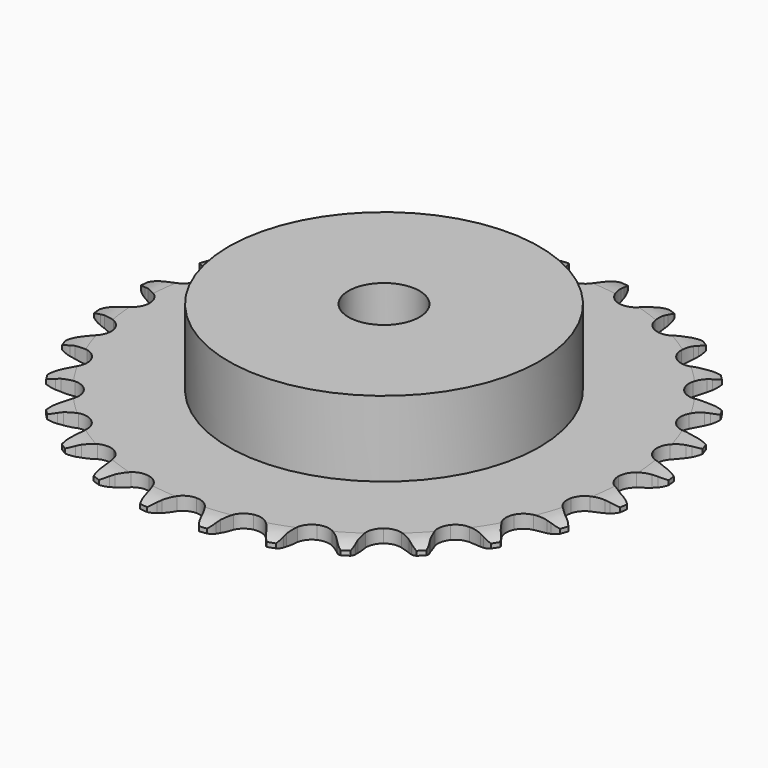
from build123d import *

# Parameters (mm, degrees)
PAD_DEPTH         = 3
SKETCH001_R       = 35
PAD001_DEPTH      = 20
SKETCH002_R       = 8
POCKET_DEPTH      = 0.001
POCKET_DEPTH_BACK = 20.001


with BuildPart() as part:
    # Sprocket → Pad (new body)
    with BuildSketch(Plane.XY):
        with BuildLine():
            ThreePointArc((-6.807169, 60.415297), (-5.673583, 59.223567), (-4.885801, 57.779739))
            Line((-4.885801, 57.779739), (-4.508176, 56.803276))
            ThreePointArc((-4.508176, 56.803276), (-3.907565, 55.523602), (-3.134704, 54.339971))
            ThreePointArc((-3.134704, 54.339971), (-1.750273, 53.192925), (0, 52.781942))
            ThreePointArc((0, 52.781942), (1.750273, 53.192925), (3.134704, 54.339971))
            ThreePointArc((3.134704, 54.339971), (3.907565, 55.523602), (4.508176, 56.803276))
            Line((4.508176, 56.803276), (4.885801, 57.779739))
            ThreePointArc((4.885801, 57.779739), (5.673583, 59.223567), (6.807169, 60.415297))
            ThreePointArc((6.807169, 60.415297), (7.647149, 59.001199), (8.093898, 57.418273))
            Line((8.093898, 57.418273), (8.244772, 56.382263))
            ThreePointArc((8.244772, 56.382263), (8.545569, 55.001025), (9.035671, 53.675092))
            ThreePointArc((9.035671, 53.675092), (10.130149, 52.24874), (11.745087, 51.458589))
            ThreePointArc((11.745087, 51.458589), (13.542929, 51.469795), (15.147891, 52.280018))
            Line((15.147891, 52.280018), (17.035064, 54.375936))
            ThreePointArc((17.035064, 54.375936), (17.316567, 54.817478), (17.620505, 55.243887))
            ThreePointArc((17.620505, 55.243887), (18.709818, 56.476217), (20.080167, 57.385822))
            ThreePointArc((20.080167, 57.385822), (20.584421, 55.820265), (20.667735, 54.177615))
            Line((20.667735, 54.177615), (20.584292, 53.134007))
            ThreePointArc((20.584292, 53.134007), (20.570194, 51.720466), (20.75296, 50.318719))
            ThreePointArc((20.75296, 50.318719), (21.502604, 48.684585), (22.901226, 47.554887))
            ThreePointArc((22.901226, 47.554887), (24.656487, 47.165755), (26.4015, 47.598526))
            Line((26.4015, 47.598526), (28.707744, 49.221959))
            ThreePointArc((28.707744, 49.221959), (29.080441, 49.589791), (29.471644, 49.937876))
            ThreePointArc((29.471644, 49.937876), (30.807864, 50.896915), (32.346262, 51.478782))
            ThreePointArc((32.346262, 51.478782), (32.489504, 49.84027), (32.205205, 48.220266))
            Line((32.205205, 48.220266), (31.89163, 47.221391))
            ThreePointArc((31.89163, 47.221391), (31.563342, 45.846427), (31.429608, 44.439156))
            ThreePointArc((31.429608, 44.439156), (31.796828, 42.679181), (32.909003, 41.266584))
            ThreePointArc((32.909003, 41.266584), (34.533665, 40.496626), (36.331228, 40.530245))
            Line((36.331228, 40.530245), (38.940897, 41.599788))
            ThreePointArc((38.940897, 41.599788), (39.3861, 41.875464), (39.844951, 42.127772))
            ThreePointArc((39.844951, 42.127772), (41.361075, 42.765428), (42.990381, 42.990381))
            ThreePointArc((42.990381, 42.990381), (42.765428, 41.361075), (42.127772, 39.844951))
            Line((42.127772, 39.844951), (41.599788, 38.940897))
            ThreePointArc((41.599788, 38.940897), (40.973773, 37.673457), (40.530245, 36.331228))
            ThreePointArc((40.530245, 36.331228), (40.496626, 34.533665), (41.266584, 32.909003))
            ThreePointArc((41.266584, 32.909003), (42.679181, 31.796828), (44.439156, 31.429608))
            Line((44.439156, 31.429608), (47.221391, 31.89163))
            ThreePointArc((47.221391, 31.89163), (47.716776, 32.061327), (48.220266, 32.205205))
            ThreePointArc((48.220266, 32.205205), (49.84027, 32.489504), (51.478782, 32.346262))
            ThreePointArc((51.478782, 32.346262), (50.896915, 30.807864), (49.937876, 29.471644))
            Line((49.937876, 29.471644), (49.221959, 28.707744))
            ThreePointArc((49.221959, 28.707744), (48.329608, 27.611383), (47.598526, 26.4015))
            ThreePointArc((47.598526, 26.4015), (47.165755, 24.656487), (47.554887, 22.901226))
            ThreePointArc((47.554887, 22.901226), (48.684585, 21.502604), (50.318719, 20.75296))
            Line((50.318719, 20.75296), (53.134007, 20.584292))
            ThreePointArc((53.134007, 20.584292), (53.654733, 20.639501), (54.177615, 20.667735))
            ThreePointArc((54.177615, 20.667735), (55.820265, 20.584421), (57.385822, 20.080167))
            ThreePointArc((57.385822, 20.080167), (56.476217, 18.709818), (55.243887, 17.620505))
            Line((55.243887, 17.620505), (54.375936, 17.035064))
            ThreePointArc((54.375936, 17.035064), (53.261995, 16.164758), (52.280018, 15.147891))
            ThreePointArc((52.280018, 15.147891), (51.469795, 13.542929), (51.458589, 11.745087))
            ThreePointArc((51.458589, 11.745087), (52.24874, 10.130149), (53.675092, 9.035671))
            Line((53.675092, 9.035671), (56.382263, 8.244772))
            ThreePointArc((56.382263, 8.244772), (56.902218, 8.182724), (57.418273, 8.093898))
            ThreePointArc((57.418273, 8.093898), (59.001199, 7.647149), (60.415297, 6.807169))
            ThreePointArc((60.415297, 6.807169), (59.223567, 5.673583), (57.779739, 4.885801))
            Line((57.779739, 4.885801), (56.803276, 4.508176))
            ThreePointArc((56.803276, 4.508176), (55.523602, 3.907565), (54.339971, 3.134704))
            ThreePointArc((54.339971, 3.134704), (53.192925, 1.750273), (52.781942, 0))
            ThreePointArc((52.781942, 0), (53.192925, -1.750273), (54.339971, -3.134704))
            Line((54.339971, -3.134704), (56.803276, -4.508176))
            ThreePointArc((56.803276, -4.508176), (57.296388, -4.684368), (57.779739, -4.885801))
            ThreePointArc((57.779739, -4.885801), (59.223567, -5.673583), (60.415297, -6.807169))
            ThreePointArc((60.415297, -6.807169), (59.001199, -7.647149), (57.418273, -8.093898))
            Line((57.418273, -8.093898), (56.382263, -8.244772))
            ThreePointArc((56.382263, -8.244772), (55.001025, -8.545569), (53.675092, -9.035671))
            ThreePointArc((53.675092, -9.035671), (52.24874, -10.130149), (51.458589, -11.745087))
            ThreePointArc((51.458589, -11.745087), (51.469795, -13.542929), (52.280018, -15.147891))
            Line((52.280018, -15.147891), (54.375936, -17.035064))
            ThreePointArc((54.375936, -17.035064), (54.817478, -17.316567), (55.243887, -17.620505))
            ThreePointArc((55.243887, -17.620505), (56.476217, -18.709818), (57.385822, -20.080167))
            ThreePointArc((57.385822, -20.080167), (55.820265, -20.584421), (54.177615, -20.667735))
            Line((54.177615, -20.667735), (53.134007, -20.584292))
            ThreePointArc((53.134007, -20.584292), (51.720466, -20.570194), (50.318719, -20.75296))
            ThreePointArc((50.318719, -20.75296), (48.684585, -21.502604), (47.554887, -22.901226))
            ThreePointArc((47.554887, -22.901226), (47.165755, -24.656487), (47.598526, -26.4015))
            Line((47.598526, -26.4015), (49.221959, -28.707744))
            ThreePointArc((49.221959, -28.707744), (49.589791, -29.080441), (49.937876, -29.471644))
            ThreePointArc((49.937876, -29.471644), (50.896915, -30.807864), (51.478782, -32.346262))
            ThreePointArc((51.478782, -32.346262), (49.84027, -32.489504), (48.220266, -32.205205))
            Line((48.220266, -32.205205), (47.221391, -31.89163))
            ThreePointArc((47.221391, -31.89163), (45.846427, -31.563342), (44.439156, -31.429608))
            ThreePointArc((44.439156, -31.429608), (42.679181, -31.796828), (41.266584, -32.909003))
            ThreePointArc((41.266584, -32.909003), (40.496626, -34.533665), (40.530245, -36.331228))
            Line((40.530245, -36.331228), (41.599788, -38.940897))
            ThreePointArc((41.599788, -38.940897), (41.875464, -39.3861), (42.127772, -39.844951))
            ThreePointArc((42.127772, -39.844951), (42.765428, -41.361075), (42.990381, -42.990381))
            ThreePointArc((42.990381, -42.990381), (41.361075, -42.765428), (39.844951, -42.127772))
            Line((39.844951, -42.127772), (38.940897, -41.599788))
            ThreePointArc((38.940897, -41.599788), (37.673457, -40.973773), (36.331228, -40.530245))
            ThreePointArc((36.331228, -40.530245), (34.533665, -40.496626), (32.909003, -41.266584))
            ThreePointArc((32.909003, -41.266584), (31.796828, -42.679181), (31.429608, -44.439156))
            Line((31.429608, -44.439156), (31.89163, -47.221391))
            ThreePointArc((31.89163, -47.221391), (32.061327, -47.716776), (32.205205, -48.220266))
            ThreePointArc((32.205205, -48.220266), (32.489504, -49.84027), (32.346262, -51.478782))
            ThreePointArc((32.346262, -51.478782), (30.807864, -50.896915), (29.471644, -49.937876))
            Line((29.471644, -49.937876), (28.707744, -49.221959))
            ThreePointArc((28.707744, -49.221959), (27.611383, -48.329608), (26.4015, -47.598526))
            ThreePointArc((26.4015, -47.598526), (24.656487, -47.165755), (22.901226, -47.554887))
            ThreePointArc((22.901226, -47.554887), (21.502604, -48.684585), (20.75296, -50.318719))
            Line((20.75296, -50.318719), (20.584292, -53.134007))
            ThreePointArc((20.584292, -53.134007), (20.639501, -53.654733), (20.667735, -54.177615))
            ThreePointArc((20.667735, -54.177615), (20.584421, -55.820265), (20.080167, -57.385822))
            ThreePointArc((20.080167, -57.385822), (18.709818, -56.476217), (17.620505, -55.243887))
            Line((17.620505, -55.243887), (17.035064, -54.375936))
            ThreePointArc((17.035064, -54.375936), (16.164758, -53.261995), (15.147891, -52.280018))
            ThreePointArc((15.147891, -52.280018), (13.542929, -51.469795), (11.745087, -51.458589))
            ThreePointArc((11.745087, -51.458589), (10.130149, -52.24874), (9.035671, -53.675092))
            Line((9.035671, -53.675092), (8.244772, -56.382263))
            ThreePointArc((8.244772, -56.382263), (8.182724, -56.902218), (8.093898, -57.418273))
            ThreePointArc((8.093898, -57.418273), (7.647149, -59.001199), (6.807169, -60.415297))
            ThreePointArc((6.807169, -60.415297), (5.673583, -59.223567), (4.885801, -57.779739))
            Line((4.885801, -57.779739), (4.508176, -56.803276))
            ThreePointArc((4.508176, -56.803276), (3.907565, -55.523602), (3.134704, -54.339971))
            ThreePointArc((3.134704, -54.339971), (1.750273, -53.192925), (0, -52.781942))
            ThreePointArc((0, -52.781942), (-1.750273, -53.192925), (-3.134704, -54.339971))
            Line((-3.134704, -54.339971), (-4.508176, -56.803276))
            ThreePointArc((-4.508176, -56.803276), (-4.684368, -57.296388), (-4.885801, -57.779739))
            ThreePointArc((-4.885801, -57.779739), (-5.673583, -59.223567), (-6.807169, -60.415297))
            ThreePointArc((-6.807169, -60.415297), (-7.647149, -59.001199), (-8.093898, -57.418273))
            Line((-8.093898, -57.418273), (-8.244772, -56.382263))
            ThreePointArc((-8.244772, -56.382263), (-8.545569, -55.001025), (-9.035671, -53.675092))
            ThreePointArc((-9.035671, -53.675092), (-10.130149, -52.24874), (-11.745087, -51.458589))
            ThreePointArc((-11.745087, -51.458589), (-13.542929, -51.469795), (-15.147891, -52.280018))
            Line((-15.147891, -52.280018), (-17.035064, -54.375936))
            ThreePointArc((-17.035064, -54.375936), (-17.316567, -54.817478), (-17.620505, -55.243887))
            ThreePointArc((-17.620505, -55.243887), (-18.709818, -56.476217), (-20.080167, -57.385822))
            ThreePointArc((-20.080167, -57.385822), (-20.584421, -55.820265), (-20.667735, -54.177615))
            Line((-20.667735, -54.177615), (-20.584292, -53.134007))
            ThreePointArc((-20.584292, -53.134007), (-20.570194, -51.720466), (-20.75296, -50.318719))
            ThreePointArc((-20.75296, -50.318719), (-21.502604, -48.684585), (-22.901226, -47.554887))
            ThreePointArc((-22.901226, -47.554887), (-24.656487, -47.165755), (-26.4015, -47.598526))
            Line((-26.4015, -47.598526), (-28.707744, -49.221959))
            ThreePointArc((-28.707744, -49.221959), (-29.080441, -49.589791), (-29.471644, -49.937876))
            ThreePointArc((-29.471644, -49.937876), (-30.807864, -50.896915), (-32.346262, -51.478782))
            ThreePointArc((-32.346262, -51.478782), (-32.489504, -49.84027), (-32.205205, -48.220266))
            Line((-32.205205, -48.220266), (-31.89163, -47.221391))
            ThreePointArc((-31.89163, -47.221391), (-31.563342, -45.846427), (-31.429608, -44.439156))
            ThreePointArc((-31.429608, -44.439156), (-31.796828, -42.679181), (-32.909003, -41.266584))
            ThreePointArc((-32.909003, -41.266584), (-34.533665, -40.496626), (-36.331228, -40.530245))
            Line((-36.331228, -40.530245), (-38.940897, -41.599788))
            ThreePointArc((-38.940897, -41.599788), (-39.3861, -41.875464), (-39.844951, -42.127772))
            ThreePointArc((-39.844951, -42.127772), (-41.361075, -42.765428), (-42.990381, -42.990381))
            ThreePointArc((-42.990381, -42.990381), (-42.765428, -41.361075), (-42.127772, -39.844951))
            Line((-42.127772, -39.844951), (-41.599788, -38.940897))
            ThreePointArc((-41.599788, -38.940897), (-40.973773, -37.673457), (-40.530245, -36.331228))
            ThreePointArc((-40.530245, -36.331228), (-40.496626, -34.533665), (-41.266584, -32.909003))
            ThreePointArc((-41.266584, -32.909003), (-42.679181, -31.796828), (-44.439156, -31.429608))
            Line((-44.439156, -31.429608), (-47.221391, -31.89163))
            ThreePointArc((-47.221391, -31.89163), (-47.716776, -32.061327), (-48.220266, -32.205205))
            ThreePointArc((-48.220266, -32.205205), (-49.84027, -32.489504), (-51.478782, -32.346262))
            ThreePointArc((-51.478782, -32.346262), (-50.896915, -30.807864), (-49.937876, -29.471644))
            Line((-49.937876, -29.471644), (-49.221959, -28.707744))
            ThreePointArc((-49.221959, -28.707744), (-48.329608, -27.611383), (-47.598526, -26.4015))
            ThreePointArc((-47.598526, -26.4015), (-47.165755, -24.656487), (-47.554887, -22.901226))
            ThreePointArc((-47.554887, -22.901226), (-48.684585, -21.502604), (-50.318719, -20.75296))
            Line((-50.318719, -20.75296), (-53.134007, -20.584292))
            ThreePointArc((-53.134007, -20.584292), (-53.654733, -20.639501), (-54.177615, -20.667735))
            ThreePointArc((-54.177615, -20.667735), (-55.820265, -20.584421), (-57.385822, -20.080167))
            ThreePointArc((-57.385822, -20.080167), (-56.476217, -18.709818), (-55.243887, -17.620505))
            Line((-55.243887, -17.620505), (-54.375936, -17.035064))
            ThreePointArc((-54.375936, -17.035064), (-53.261995, -16.164758), (-52.280018, -15.147891))
            ThreePointArc((-52.280018, -15.147891), (-51.469795, -13.542929), (-51.458589, -11.745087))
            ThreePointArc((-51.458589, -11.745087), (-52.24874, -10.130149), (-53.675092, -9.035671))
            Line((-53.675092, -9.035671), (-56.382263, -8.244772))
            ThreePointArc((-56.382263, -8.244772), (-56.902218, -8.182724), (-57.418273, -8.093898))
            ThreePointArc((-57.418273, -8.093898), (-59.001199, -7.647149), (-60.415297, -6.807169))
            ThreePointArc((-60.415297, -6.807169), (-59.223567, -5.673583), (-57.779739, -4.885801))
            Line((-57.779739, -4.885801), (-56.803276, -4.508176))
            ThreePointArc((-56.803276, -4.508176), (-55.523602, -3.907565), (-54.339971, -3.134704))
            ThreePointArc((-54.339971, -3.134704), (-53.192925, -1.750273), (-52.781942, 0))
            ThreePointArc((-52.781942, 0), (-53.192925, 1.750273), (-54.339971, 3.134704))
            Line((-54.339971, 3.134704), (-56.803276, 4.508176))
            ThreePointArc((-56.803276, 4.508176), (-57.296388, 4.684368), (-57.779739, 4.885801))
            ThreePointArc((-57.779739, 4.885801), (-59.223567, 5.673583), (-60.415297, 6.807169))
            ThreePointArc((-60.415297, 6.807169), (-59.001199, 7.647149), (-57.418273, 8.093898))
            Line((-57.418273, 8.093898), (-56.382263, 8.244772))
            ThreePointArc((-56.382263, 8.244772), (-55.001025, 8.545569), (-53.675092, 9.035671))
            ThreePointArc((-53.675092, 9.035671), (-52.24874, 10.130149), (-51.458589, 11.745087))
            ThreePointArc((-51.458589, 11.745087), (-51.469795, 13.542929), (-52.280018, 15.147891))
            Line((-52.280018, 15.147891), (-54.375936, 17.035064))
            ThreePointArc((-54.375936, 17.035064), (-54.817478, 17.316567), (-55.243887, 17.620505))
            ThreePointArc((-55.243887, 17.620505), (-56.476217, 18.709818), (-57.385822, 20.080167))
            ThreePointArc((-57.385822, 20.080167), (-55.820265, 20.584421), (-54.177615, 20.667735))
            Line((-54.177615, 20.667735), (-53.134007, 20.584292))
            ThreePointArc((-53.134007, 20.584292), (-51.720466, 20.570194), (-50.318719, 20.75296))
            ThreePointArc((-50.318719, 20.75296), (-48.684585, 21.502604), (-47.554887, 22.901226))
            ThreePointArc((-47.554887, 22.901226), (-47.165755, 24.656487), (-47.598526, 26.4015))
            Line((-47.598526, 26.4015), (-49.221959, 28.707744))
            ThreePointArc((-49.221959, 28.707744), (-49.589791, 29.080441), (-49.937876, 29.471644))
            ThreePointArc((-49.937876, 29.471644), (-50.896915, 30.807864), (-51.478782, 32.346262))
            ThreePointArc((-51.478782, 32.346262), (-49.84027, 32.489504), (-48.220266, 32.205205))
            Line((-48.220266, 32.205205), (-47.221391, 31.89163))
            ThreePointArc((-47.221391, 31.89163), (-45.846427, 31.563342), (-44.439156, 31.429608))
            ThreePointArc((-44.439156, 31.429608), (-42.679181, 31.796828), (-41.266584, 32.909003))
            ThreePointArc((-41.266584, 32.909003), (-40.496626, 34.533665), (-40.530245, 36.331228))
            Line((-40.530245, 36.331228), (-41.599788, 38.940897))
            ThreePointArc((-41.599788, 38.940897), (-41.875464, 39.3861), (-42.127772, 39.844951))
            ThreePointArc((-42.127772, 39.844951), (-42.765428, 41.361075), (-42.990381, 42.990381))
            ThreePointArc((-42.990381, 42.990381), (-41.361075, 42.765428), (-39.844951, 42.127772))
            Line((-39.844951, 42.127772), (-38.940897, 41.599788))
            ThreePointArc((-38.940897, 41.599788), (-37.673457, 40.973773), (-36.331228, 40.530245))
            ThreePointArc((-36.331228, 40.530245), (-34.533665, 40.496626), (-32.909003, 41.266584))
            ThreePointArc((-32.909003, 41.266584), (-31.796828, 42.679181), (-31.429608, 44.439156))
            Line((-31.429608, 44.439156), (-31.89163, 47.221391))
            ThreePointArc((-31.89163, 47.221391), (-32.061327, 47.716776), (-32.205205, 48.220266))
            ThreePointArc((-32.205205, 48.220266), (-32.489504, 49.84027), (-32.346262, 51.478782))
            ThreePointArc((-32.346262, 51.478782), (-30.807864, 50.896915), (-29.471644, 49.937876))
            Line((-29.471644, 49.937876), (-28.707744, 49.221959))
            ThreePointArc((-28.707744, 49.221959), (-27.611383, 48.329608), (-26.4015, 47.598526))
            ThreePointArc((-26.4015, 47.598526), (-24.656487, 47.165755), (-22.901226, 47.554887))
            ThreePointArc((-22.901226, 47.554887), (-21.502604, 48.684585), (-20.75296, 50.318719))
            Line((-20.75296, 50.318719), (-20.584292, 53.134007))
            ThreePointArc((-20.584292, 53.134007), (-20.639501, 53.654733), (-20.667735, 54.177615))
            ThreePointArc((-20.667735, 54.177615), (-20.584421, 55.820265), (-20.080167, 57.385822))
            ThreePointArc((-20.080167, 57.385822), (-18.709818, 56.476217), (-17.620505, 55.243887))
            Line((-17.620505, 55.243887), (-17.035064, 54.375936))
            ThreePointArc((-17.035064, 54.375936), (-16.164758, 53.261995), (-15.147891, 52.280018))
            ThreePointArc((-15.147891, 52.280018), (-13.542929, 51.469795), (-11.745087, 51.458589))
            ThreePointArc((-11.745087, 51.458589), (-10.130149, 52.24874), (-9.035671, 53.675092))
            Line((-9.035671, 53.675092), (-8.244772, 56.382263))
            ThreePointArc((-8.244772, 56.382263), (-8.182724, 56.902218), (-8.093898, 57.418273))
            ThreePointArc((-8.093898, 57.418273), (-7.647149, 59.001199), (-6.807169, 60.415297))
        make_face()
    extrude(amount=PAD_DEPTH)

    # Sketch → Groove (revolve, cut)
    with BuildSketch(Plane.XZ):
        with BuildLine():
            Line((54.7, 0), (59.7, 0))
            Line((64.7, 0), (59.7, 0))
            Line((64.7, 3), (64.7, 0))
            Line((59.7, 3), (64.7, 3))
            Line((54.7, 3), (59.7, 3))
            ThreePointArc((59.7, 2), (57.24951, 2.747549), (54.7, 3))
            Line((59.7, 1), (59.7, 2))
            ThreePointArc((54.7, 0), (57.24951, 0.252451), (59.7, 1))
        make_face()
    revolve(axis=Axis((0, 0, 0), (0, 0, 1)), mode=Mode.SUBTRACT)

    # Sketch001 → Pad001 (join)
    with BuildSketch(Plane.XY):
        Circle(SKETCH001_R)
    extrude(amount=PAD001_DEPTH)

    # Sketch002 → Pocket (cut, two sides)
    with BuildSketch(Plane.XY) as pocket_sk:
        Circle(SKETCH002_R)
    extrude(amount=-POCKET_DEPTH, mode=Mode.SUBTRACT)
    extrude(pocket_sk.sketch, amount=POCKET_DEPTH_BACK, mode=Mode.SUBTRACT)


solid = part.part
